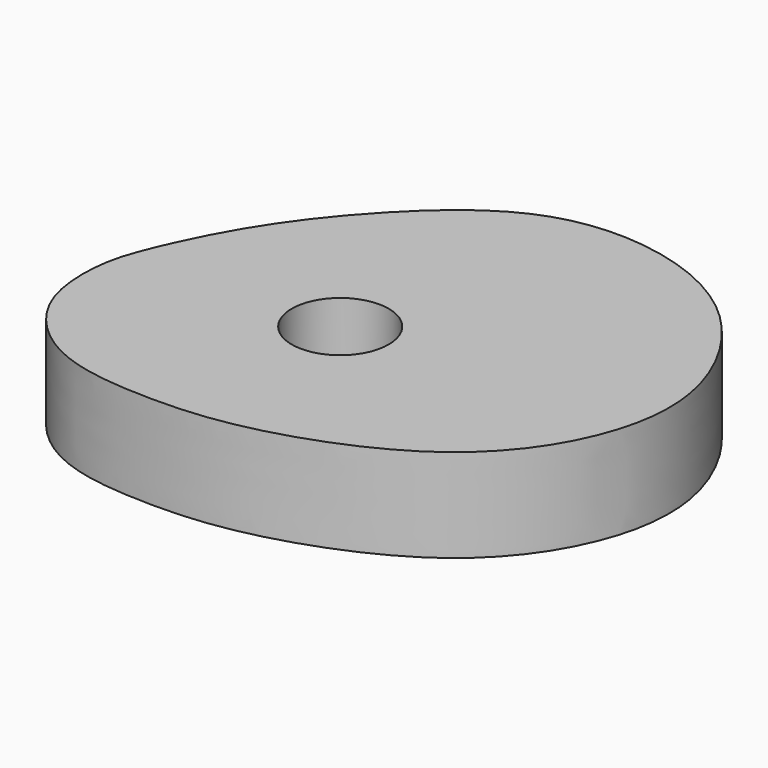
from build123d import *

# Parameters (mm, degrees)
F0_R     = 3.3017594059
F1_DEPTH = 6.35


with BuildPart() as f1:
    # F0 (on Top) → F1 (new body)
    with BuildSketch(Plane.XY):
        with BuildLine():
            add(Edge.make_bspline(
                [(-13.7741193175, 0), (-14.125817672, -0.9406933493), (-14.5536571329, -2.4966319155), (-14.5220562276, -7.5402560387), (-10.0739260048, -12.22489041), (-3.2676348379, -12.9352827346), (3.6439723304, -12.5676968928), (13.8166022414, -8.6711241009), (19.0501662867, -1.6034350095), (20.1836634762, 6.2817974099), (15.2637934375, 14.6446565162), (7.3990048727, 17.9298940854), (-0.3510706119, 17.3302652214), (-6.7549254721, 11.7311167899), (-11.3066583813, 5.7450275467), (-13.2472945692, 1.4091067834), (-13.7741193175, 0)],
                knots=[0, 0, 0, 0, 0.0439577121, 0.1021087225, 0.168130616, 0.2371255512, 0.3089295669, 0.3968791897, 0.4755051945, 0.5492860286, 0.6306036801, 0.7078867274, 0.7809848625, 0.8584427394, 0.9341537704, 1, 1, 1, 1], degree=3))
        make_face()
        Circle(F0_R, mode=Mode.SUBTRACT)
    extrude(amount=F1_DEPTH)


solid = f1.part
